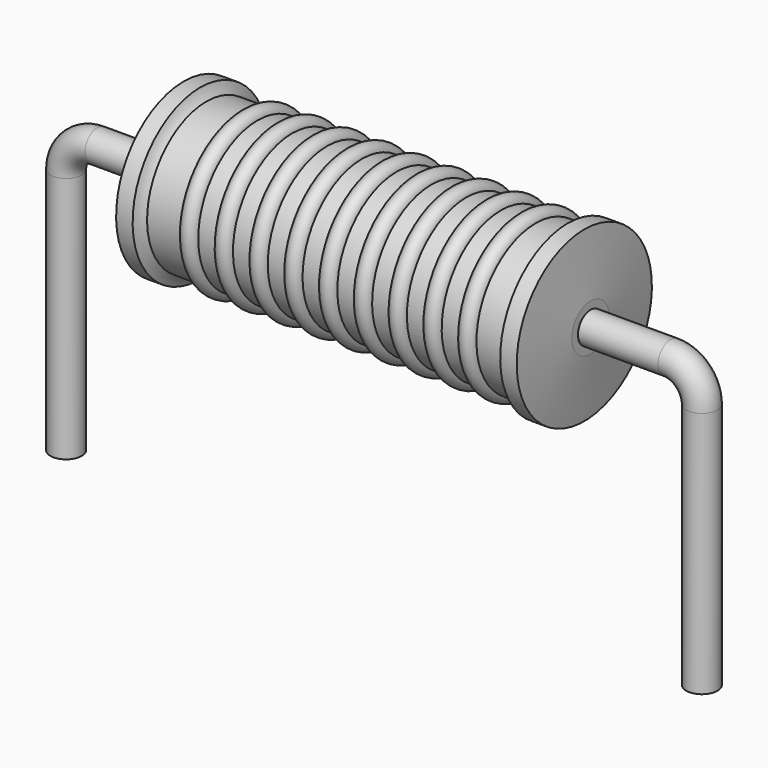
from build123d import *

# Parameters (mm, degrees)
SKETCH_R = 0.25


with BuildPart() as sweep_body:
    # Sweep: sweep along a path in Sketch001
    with BuildLine(Plane.XZ) as sweep_path:
        Line((0, -3), (0, 0.95))
        ThreePointArc((0, 0.95), (0.146449, 1.303556), (0.500006, 1.45))
        Line((0.500006, 1.45), (9.66, 1.45))
        ThreePointArc((9.66, 1.45), (10.013553, 1.303553), (10.16, 0.95))
        Line((10.16, 0.95), (10.16, -3))
    # Sketch → Sweep (sweep)
    with BuildSketch(Plane.XY.offset(-2)):
        Circle(SKETCH_R)
    sweep(path=sweep_path.line)


with BuildPart() as revolution:
    # Sketch002 → Revolution (revolve)
    with BuildSketch(Plane.XZ):
        with BuildLine():
            Line((1.879, 2.8), (2.143, 2.8))
            ThreePointArc((2.143, 2.8), (2.183636, 2.712182), (2.242, 2.635))
            Line((2.242, 2.635), (7.918, 2.635))
            ThreePointArc((7.918, 2.635), (7.976364, 2.712182), (8.017, 2.8))
            Line((8.017, 2.8), (8.281, 2.8))
            ThreePointArc((8.38, 1.825), (8.33106, 2.312557), (8.281, 2.8))
            Line((8.38, 1.45), (8.38, 1.825))
            Line((1.78, 1.45), (8.38, 1.45))
            Line((1.78, 1.45), (1.78, 1.825))
            ThreePointArc((1.879, 2.8), (1.82894, 2.312557), (1.78, 1.825))
        make_face()
    revolve(axis=Axis((1.78, 0, 1.45), (1, 0, 0)))


with BuildPart() as obj1:
    # Sketch003 → Revolution001 (revolve)
    with BuildSketch(Plane.XZ):
        with BuildLine():
            ThreePointArc((3.061789, 2.6086), (2.922842, 2.747547), (2.783895, 2.6086))
            Line((2.506, 2.6086), (2.783895, 2.6086))
            Line((2.506, 2.6086), (2.506, 2.3386))
            Line((2.506, 2.3386), (7.786, 2.3386))
            Line((7.786, 2.3386), (7.786, 2.6086))
            Line((7.508105, 2.6086), (7.786, 2.6086))
            ThreePointArc((7.508105, 2.6086), (7.369158, 2.747547), (7.230211, 2.6086))
            Line((6.952316, 2.6086), (7.230211, 2.6086))
            ThreePointArc((6.952316, 2.6086), (6.813368, 2.747547), (6.674421, 2.6086))
            Line((6.396526, 2.6086), (6.674421, 2.6086))
            ThreePointArc((6.396526, 2.6086), (6.257579, 2.747547), (6.118632, 2.6086))
            Line((5.840737, 2.6086), (6.118632, 2.6086))
            ThreePointArc((5.840737, 2.6086), (5.701789, 2.747547), (5.562842, 2.6086))
            Line((5.284947, 2.6086), (5.562842, 2.6086))
            ThreePointArc((5.284947, 2.6086), (5.146, 2.747547), (5.007053, 2.6086))
            Line((4.729158, 2.6086), (5.007053, 2.6086))
            ThreePointArc((4.729158, 2.6086), (4.590211, 2.747547), (4.451263, 2.6086))
            Line((4.173368, 2.6086), (4.451263, 2.6086))
            ThreePointArc((4.173368, 2.6086), (4.034421, 2.747547), (3.895474, 2.6086))
            Line((3.617579, 2.6086), (3.895474, 2.6086))
            ThreePointArc((3.617579, 2.6086), (3.478632, 2.747547), (3.339684, 2.6086))
            Line((3.061789, 2.6086), (3.339684, 2.6086))
        make_face()
    revolve(axis=Axis((1.945, 0, 1.45), (1, 0, 0)))

    # obj1: union Sweep body, Revolution
    add(sweep_body.part)
    add(revolution.part)


solid = obj1.part
